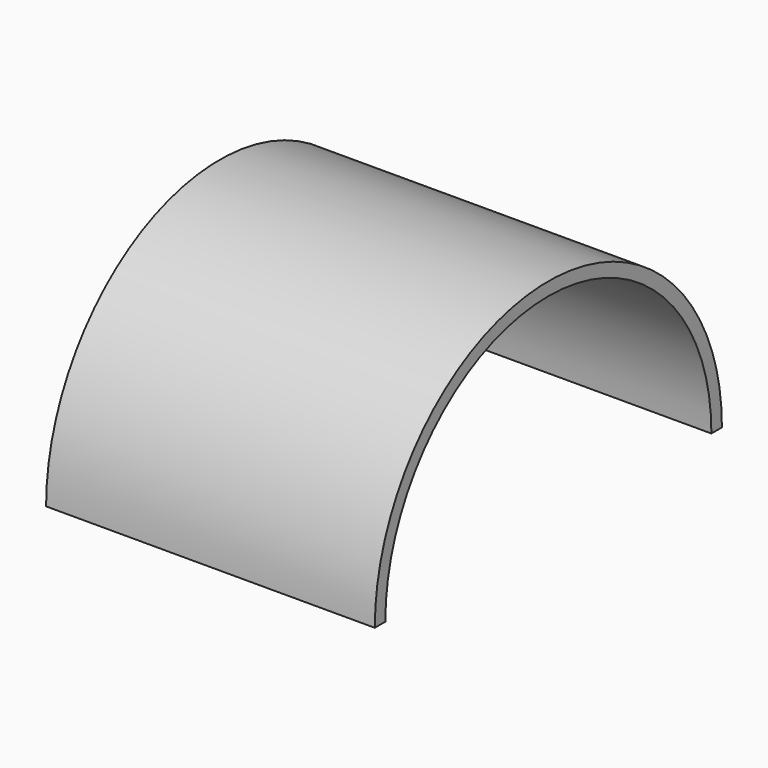
from build123d import *

# Parameters (mm, degrees)
F1_DEPTH = 25


with BuildPart() as f1:
    # F0 (on Right) → F1 (new body)
    with BuildSketch(Plane.YZ):
        with BuildLine():
            ThreePointArc((14.037885, -21.935234), (-2.462115, -5.435234), (-18.962115, -21.935234))
            Line((-18.962115, -21.935234), (-17.962115, -21.935234))
            ThreePointArc((-17.962115, -21.935234), (-2.462115, -6.435234), (13.037885, -21.935234))
            Line((13.037885, -21.935234), (14.037885, -21.935234))
        make_face()
    extrude(amount=F1_DEPTH)


solid = f1.part
